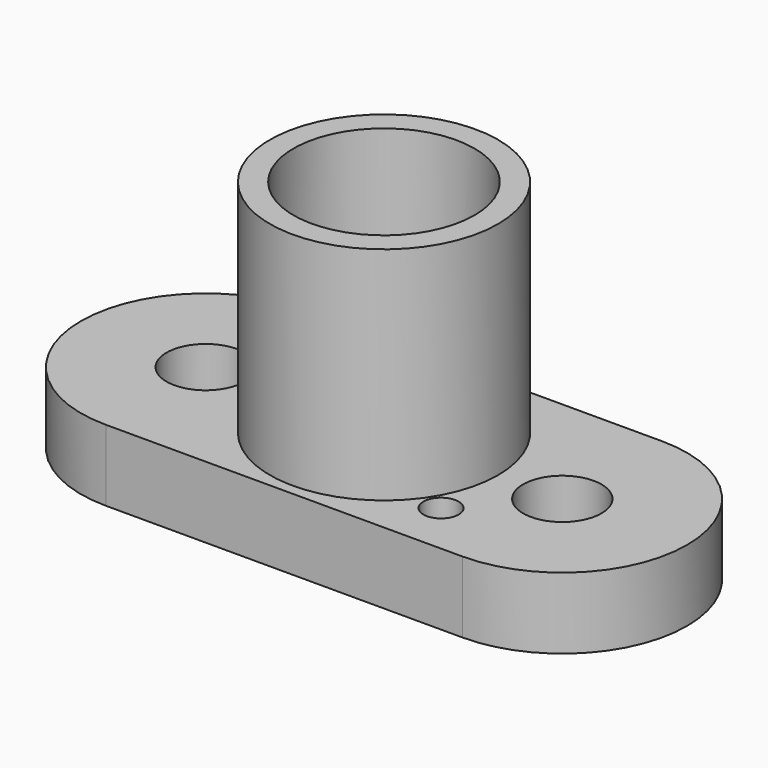
from build123d import *

# Parameters (mm, degrees)
F0_R     = 0.4935
F0_R_2   = 1.1
F1_DEPTH = 2
F2_R     = 3.2
F3_DEPTH = 0.65
F4_R     = 3.2
F4_R_2   = 2.5375
F5_DEPTH = 5.55
F6_R     = 1.6
F7_DEPTH = 25
F8_R     = 2.2
F9_DEPTH = 1


with BuildPart() as f1:
    # F0 (on Top) → F1 (new body)
    with BuildSketch(Plane.XY):
        with BuildLine():
            Line((5, 3.5), (-5, 3.5))
            ThreePointArc((-5, 3.5), (-8.5, 0), (-5, -3.5))
            Line((-5, -3.5), (5, -3.5))
            ThreePointArc((5, -3.5), (8.5, 0), (5, 3.5))
        make_face()
        with Locations((3.2, -2)):
            Circle(F0_R, mode=Mode.SUBTRACT)
        with Locations((-5, 0)):
            Circle(F0_R_2, mode=Mode.SUBTRACT)
        with Locations((-3.2, 2)):
            Circle(F0_R, mode=Mode.SUBTRACT)
        with Locations((5, 0)):
            Circle(F0_R_2, mode=Mode.SUBTRACT)
    extrude(amount=F1_DEPTH)

    # F2 (on face) → F3 (join)
    with BuildSketch(Plane.XY.offset(2)):
        Circle(F2_R)
    extrude(amount=F3_DEPTH)

    # F4 (on face) → F5 (join)
    with BuildSketch(Plane.XY.offset(2.65)):
        Circle(F4_R)
        Circle(F4_R_2, mode=Mode.SUBTRACT)
    extrude(amount=F5_DEPTH)

    # F6 (on face) → F7 (cut)
    with BuildSketch(Plane.XY.offset(2.65)):
        Circle(F6_R)
    extrude(amount=-F7_DEPTH, mode=Mode.SUBTRACT)

    # F8 (on face) → F9 (cut)
    with BuildSketch(Plane(origin=(0, 0, 0), x_dir=(1, 0, 0), z_dir=(0, 0, -1))):
        Circle(F8_R)
    extrude(amount=-F9_DEPTH, mode=Mode.SUBTRACT)


solid = f1.part
